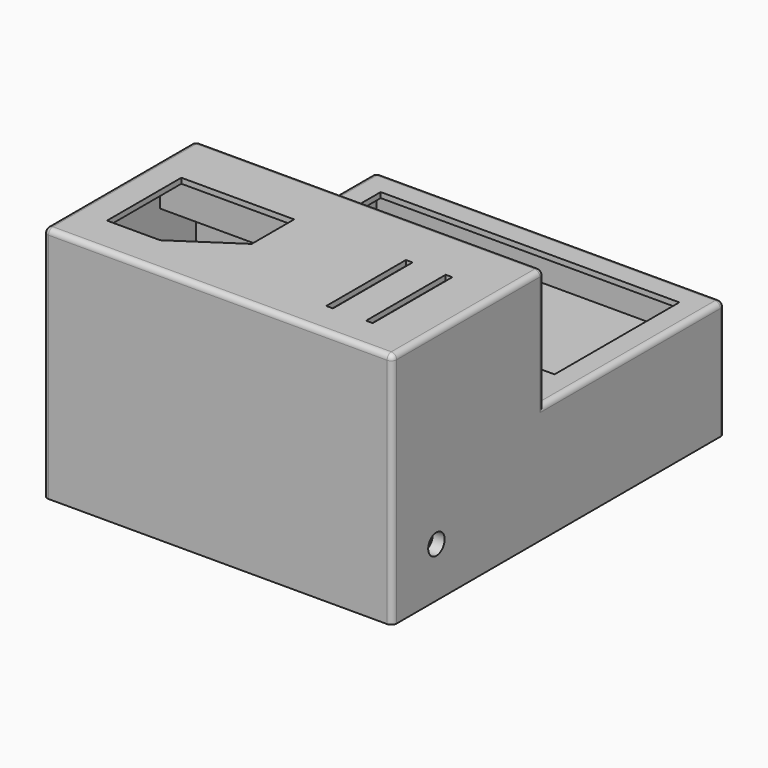
from build123d import *

# Parameters (mm, degrees)
SKETCH_W                = 51
SKETCH_H                = 61
PAD_DEPTH               = 35
SKETCH001_W             = 51
SKETCH001_H             = 34
POCKET_DEPTH            = 18
THICKNESS_T             = 0.8
SKETCH002_W             = 13
SKETCH002_H             = 4
POCKET001_DEPTH         = 0.8
SKETCH003_R             = 1.4
POCKET002_DEPTH         = 0.8
SKETCH004_R             = 1.4
POCKET003_DEPTH         = 0.8
POCKET004_DEPTH         = 0.8
SKETCH006_W             = 34
SKETCH006_H             = 21
PAD001_DEPTH            = 5
SKETCH007_W             = 33.2
SKETCH007_H             = 20.2
POCKET005_DEPTH         = 5
POCKET006_DEPTH         = 0.8
SKETCH010_W             = 1
SKETCH010_H             = 15
POCKET007_DEPTH         = 0.8
LINEARPATTERN_COUNT     = 2
LINEARPATTERN_PITCH     = 6
FILLET_R                = 1
PAD002_DEPTH            = 1
PAD003_DEPTH            = 1
PAD004_DEPTH            = 1
PAD005_DEPTH            = 1
SKETCH016_W             = 10
SKETCH016_H             = 4
PAD006_DEPTH            = 1
SKETCH015_R             = 1.55
POCKET008_DEPTH         = 1.8
FILLET001_R             = 1.5
SKETCH017_W             = 49
SKETCH017_H             = 37.6
PAD007_DEPTH            = 0.8
SKETCH018_R             = 1.5
POCKET009_DEPTH         = 0.8
SKETCH020_R             = 1.5
POCKET010_DEPTH         = 0.8
SKETCH021_W             = 36.1
SKETCH021_H             = 37.6
PAD008_DEPTH            = 5
SKETCH022_W             = 34.5
SKETCH022_H             = 36
POCKET011_DEPTH         = 3.4
SKETCH023_W             = 5.5
SKETCH023_H             = 25.4
POCKET012_DEPTH         = 1.6
SKETCH024_W             = 5.5
SKETCH024_H             = 25.4
POCKET013_DEPTH         = 1.6
SKETCH025_R             = 5
POCKET014_DEPTH         = 2.4
FILLET002_R             = 1
BODY001_PLACEMENT_ANGLE = 180


with BuildPart() as body:
    # Sketch → Pad (new body)
    with BuildSketch(Plane.XY):
        with Locations((25.5, 30.5)):
            Rectangle(SKETCH_W, SKETCH_H)
    extrude(amount=PAD_DEPTH)

    # Sketch001 (on Face6 of Pad) → Pocket (cut)
    with BuildSketch(Plane.XY.offset(35)):
        with Locations((25.5, 44)):
            Rectangle(SKETCH001_W, SKETCH001_H)
    extrude(amount=-POCKET_DEPTH, mode=Mode.SUBTRACT)

    # Thickness
    thickness_openings = [body.faces().sort_by_distance(p)[0] for p in [
        (25.5, 30.5, 0),
    ]]
    offset(amount=THICKNESS_T, openings=thickness_openings)

    # Sketch002 (on Face31 of Thickness) → Pocket001 (cut)
    with BuildSketch(Plane(origin=(0, 27.8, 0), x_dir=(-1, 0, 0), z_dir=(0, 1, 0))):
        with Locations((-35.5, 33)):
            Rectangle(SKETCH002_W, SKETCH002_H)
    extrude(amount=-POCKET001_DEPTH, mode=Mode.SUBTRACT)

    # Sketch003 (on Face35 of Pocket001) → Pocket002 (cut)
    with BuildSketch(Plane.XY.offset(17.8)):
        with Locations((2.5, 50)):
            Circle(SKETCH003_R)
    extrude(amount=-POCKET002_DEPTH, mode=Mode.SUBTRACT)

    # Sketch004 (on Face36 of Pocket002) → Pocket003 (cut)
    with BuildSketch(Plane.XY.offset(17.8)):
        with Locations((47.2, 30.5)):
            Circle(SKETCH004_R)
    extrude(amount=-POCKET003_DEPTH, mode=Mode.SUBTRACT)

    # Sketch005 (on Face37 of Pocket003) → Pocket004 (cut)
    with BuildSketch(Plane.XY.offset(17.8)):
        Polygon((3, 46), (3, 30.8), (43.2, 30.8), (43.2, 34.5), (48, 34.5), (48, 58), (3, 58), (3, 54), (6.5, 54), (6.5, 46), align=None)
    extrude(amount=-POCKET004_DEPTH, mode=Mode.SUBTRACT)

    # Sketch006 (on Face5 of Pocket004) → Pad001 (join)
    with BuildSketch(Plane(origin=(0, 0, 35), x_dir=(1, 0, 0), z_dir=(0, 0, -1))):
        with Locations((17, -10.5)):
            Rectangle(SKETCH006_W, SKETCH006_H)
    extrude(amount=PAD001_DEPTH)

    # Sketch007 (on Face6 of Pad001) → Pocket005 (cut)
    with BuildSketch(Plane(origin=(0, 0, 30), x_dir=(1, 0, 0), z_dir=(0, 0, -1))):
        with Locations((16.6, -10.1)):
            Rectangle(SKETCH007_W, SKETCH007_H)
    extrude(amount=-POCKET005_DEPTH, mode=Mode.SUBTRACT)

    # Sketch008 (on Face24 of Pocket005) → Pocket006 (cut)
    with BuildSketch(Plane(origin=(0, 0, 35), x_dir=(1, 0, 0), z_dir=(0, 0, -1))):
        Polygon((4, -19.2), (21, -19.2), (21, -11.2), (12, -5.2), (4, -5.2), align=None)
    extrude(amount=-POCKET006_DEPTH, mode=Mode.SUBTRACT)

    # Sketch010 (on Face4 of Pocket006) → Pocket007 (cut)
    with BuildSketch(Plane(origin=(0, 0, 35), x_dir=(1, 0, 0), z_dir=(0, 0, -1))):
        with Locations((38.234802, -11.832042)):
            Rectangle(SKETCH010_W, SKETCH010_H)
    pocket007 = extrude(amount=-POCKET007_DEPTH, mode=Mode.SUBTRACT)

    # LinearPattern: Pocket007 ×2
    with Locations(*[(i * LINEARPATTERN_PITCH, 0, 0) for i in range(1, LINEARPATTERN_COUNT)]):
        add(pocket007, mode=Mode.SUBTRACT)

    # Fillet
    fillet_edges = [body.edges().sort_by_distance(p)[0] for p in [
        (33.2, 20.2, 32.5),
        (34, 21, 32.5),
    ]]
    fillet(fillet_edges, radius=FILLET_R)

    # Sketch011 (on Face19 of Fillet) → Pad002 (join)
    with BuildSketch(Plane(origin=(0, 0, 0), x_dir=(1, 0, 0), z_dir=(0, 0, -1))):
        Polygon((0, 0), (4, 0), (0, -4), align=None)
    extrude(amount=-PAD002_DEPTH)

    # Sketch012 (on Face19 of Pad002) → Pad003 (join)
    with BuildSketch(Plane(origin=(0, 0, 0), x_dir=(1, 0, 0), z_dir=(0, 0, -1))):
        Polygon((51, 0), (47, 0), (51, -4), align=None)
    extrude(amount=-PAD003_DEPTH)

    # Sketch013 (on Face19 of Pad003) → Pad004 (join)
    with BuildSketch(Plane(origin=(0, 0, 0), x_dir=(1, 0, 0), z_dir=(0, 0, -1))):
        Polygon((0, -61), (0, -57), (4, -61), align=None)
    extrude(amount=-PAD004_DEPTH)

    # Sketch014 (on Face19 of Pad004) → Pad005 (join)
    with BuildSketch(Plane(origin=(0, 0, 0), x_dir=(1, 0, 0), z_dir=(0, 0, -1))):
        Polygon((51, -61), (51, -57), (47, -61), align=None)
    extrude(amount=-PAD005_DEPTH)

    # Sketch016 (on Face9 of Pad005) → Pad006 (join)
    with BuildSketch(Plane(origin=(51, 0, 0), x_dir=(0, -1, 0), z_dir=(-1, 0, 0))):
        with Locations((-5, 7.5)):
            Rectangle(SKETCH016_W, SKETCH016_H)
    extrude(amount=PAD006_DEPTH)

    # Sketch015 (on Face49 of Pad005) → Pocket008 (cut)
    with BuildSketch(Plane.YZ.offset(51.8)):
        with Locations((7.5, 7.5)):
            Circle(SKETCH015_R)
    extrude(amount=-POCKET008_DEPTH, mode=Mode.SUBTRACT)

    # Fillet001
    fillet001_edges = [body.edges().sort_by_distance(p)[0] for p in [
        (50.5, 10, 5.5),
        (50.5, 10, 9.5),
    ]]
    fillet(fillet001_edges, radius=FILLET001_R)


with BuildPart() as esp:
    # Sketch017 → Pad007 (new body)
    with BuildSketch(Plane.XY):
        with Locations((24.5, 18.8)):
            Rectangle(SKETCH017_W, SKETCH017_H)
    extrude(amount=PAD007_DEPTH)

    # Sketch018 (on Face6 of Pad007) → Pocket009 (cut)
    with BuildSketch(Plane.XY.offset(0.8)):
        with Locations((2, 6)):
            Circle(SKETCH018_R)
    extrude(amount=-POCKET009_DEPTH, mode=Mode.SUBTRACT)

    # Sketch020 (on Face5 of Pocket009) → Pocket010 (cut)
    with BuildSketch(Plane.XY.offset(0.8)):
        with Locations((45.8, 25.5)):
            Circle(SKETCH020_R)
    extrude(amount=-POCKET010_DEPTH, mode=Mode.SUBTRACT)

    # Sketch021 (on Face5 of Pocket010) → Pad008 (join)
    with BuildSketch(Plane.XY.offset(0.8)):
        with Locations((24.5, 18.8)):
            Rectangle(SKETCH021_W, SKETCH021_H)
    extrude(amount=PAD008_DEPTH)

    # Sketch022 (on Face13 of Pad008) → Pocket011 (cut)
    with BuildSketch(Plane.XY.offset(5.8)):
        with Locations((24.5, 18.8)):
            Rectangle(SKETCH022_W, SKETCH022_H)
    extrude(amount=-POCKET011_DEPTH, mode=Mode.SUBTRACT)

    # Sketch023 (on Face19 of Pocket011) → Pocket012 (cut)
    with BuildSketch(Plane.XY.offset(2.4)):
        with Locations((10, 18.8)):
            Rectangle(SKETCH023_W, SKETCH023_H)
    extrude(amount=-POCKET012_DEPTH, mode=Mode.SUBTRACT)

    # Sketch024 (on Face19 of Pocket012) → Pocket013 (cut)
    with BuildSketch(Plane.XY.offset(2.4)):
        with Locations((39, 18.8)):
            Rectangle(SKETCH024_W, SKETCH024_H)
    extrude(amount=-POCKET013_DEPTH, mode=Mode.SUBTRACT)

    # Sketch025 (on Face19 of Pocket013) → Pocket014 (cut)
    with BuildSketch(Plane.XY.offset(2.4)):
        with Locations((24.5, 18.8)):
            Circle(SKETCH025_R)
    extrude(amount=-POCKET014_DEPTH, mode=Mode.SUBTRACT)

    # Fillet002
    fillet002_edges = [esp.edges().sort_by_distance(p)[0] for p in [
        (19.5, 18.8, 0),
    ]]
    fillet(fillet002_edges, radius=FILLET002_R)


with BuildPart() as esp_1:
    # Body001 placement: moved
    add(esp.part.moved(Location((1, 56, 15))).rotate(Axis((1, 56, 15), (1, 0, 0)), BODY001_PLACEMENT_ANGLE))


solid = Compound([body.part, esp_1.part])
